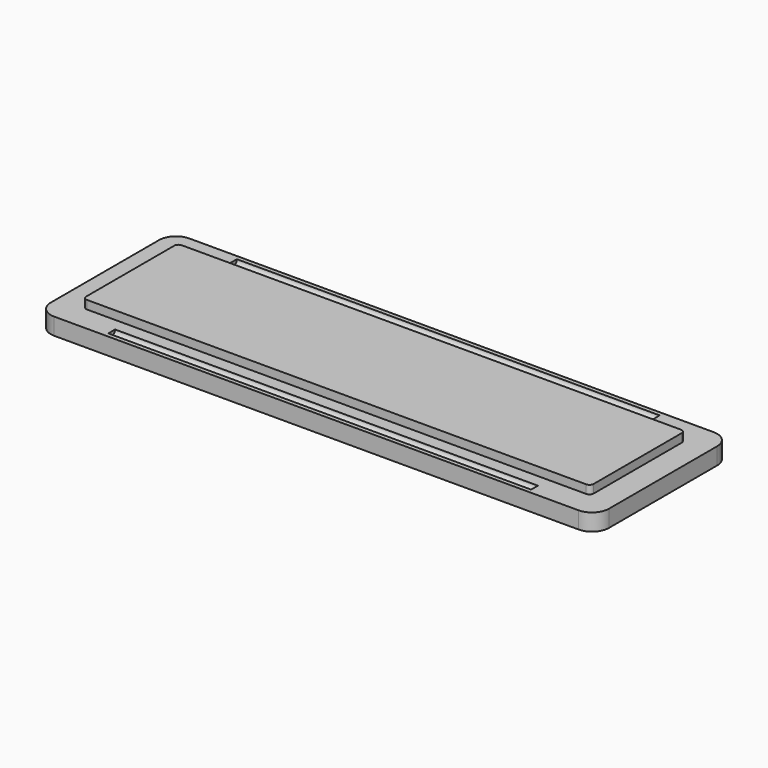
from build123d import *

# Parameters (mm, degrees)
F0_W          = 60
F0_H          = 14
F1_DEPTH      = 2
F2_W          = 60
F2_H          = 14
F3_DEPTH      = 1
F3_DEPTH_BACK = 1
F4_R          = 0.5
F6_DEPTH      = 25
F7_R          = 0.5


with BuildPart() as f1:
    # F0 (on Top) → F1 (new body)
    with BuildSketch(Plane.XY):
        with BuildLine():
            Line((31, 10), (-31, 10))
            ThreePointArc((-31, 10), (-32.4142135624, 9.4142135624), (-33, 8))
            Line((-33, 8), (-33, -8))
            ThreePointArc((-33, -8), (-32.4142135624, -9.4142135624), (-31, -10))
            Line((-31, -10), (31, -10))
            ThreePointArc((31, -10), (32.4142135624, -9.4142135624), (33, -8))
            Line((33, -8), (33, 8))
            ThreePointArc((33, 8), (32.4142135624, 9.4142135624), (31, 10))
        make_face()
        Rectangle(F0_W, F0_H, mode=Mode.SUBTRACT)
    extrude(amount=F1_DEPTH)

    # F2 (on face) → F3 (join, two sides)
    with BuildSketch(Plane.XY.offset(2)) as f3_sk:
        Rectangle(F2_W, F2_H)
    extrude(amount=F3_DEPTH)
    extrude(f3_sk.sketch, amount=-F3_DEPTH_BACK)

    # F4
    f4_edges = [f1.edges().sort_by_distance(p)[0] for p in [
        (-30, 7, 2.5),
        (-30, -7, 2.5),
        (30, -7, 2.5),
        (30, 7, 2.5),
    ]]
    fillet(f4_edges, radius=F4_R)

    # F5 (on Right) → F6 (cut, symmetric)
    with BuildSketch(Plane.YZ):
        with BuildLine():
            Line((-8.5, 2), (-9.5, 2))
            ThreePointArc((-9.5, 2), (-9, 1.5), (-8.5, 2))
        make_face()
        with BuildLine():
            ThreePointArc((8.5, 2), (9, 1.5), (9.5, 2))
            Line((9.5, 2), (8.5, 2))
        make_face()
    extrude(amount=F6_DEPTH, both=True, mode=Mode.SUBTRACT)

    # F7
    f7_edges = [f1.edges().sort_by_distance(p)[0] for p in [
        (30, -7, 0.5),
        (30, 7, 0.5),
        (-30, -7, 0.5),
        (-30, 7, 0.5),
    ]]
    fillet(f7_edges, radius=F7_R)


solid = f1.part
